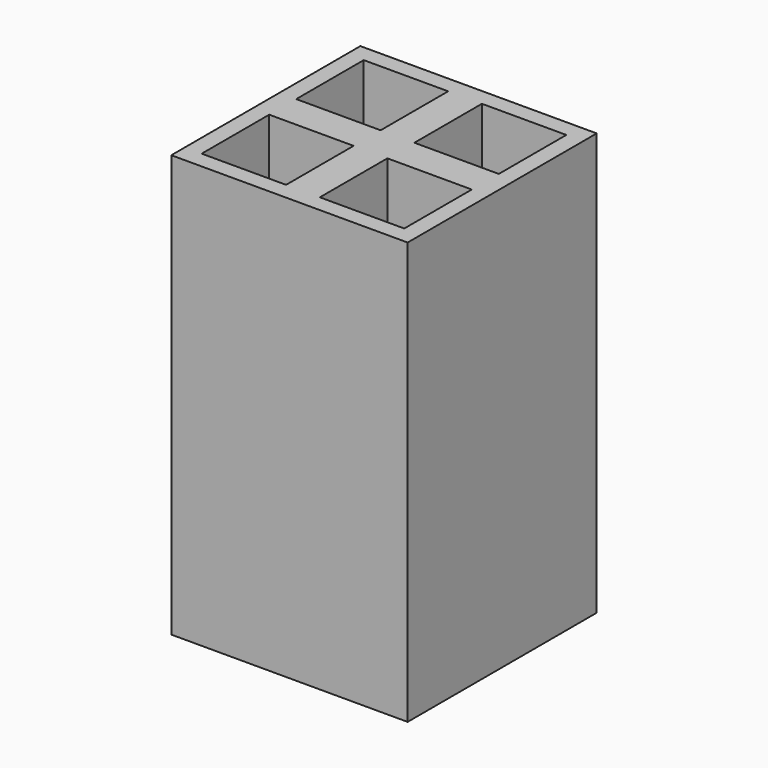
from build123d import *

# Parameters (mm, degrees)
SKETCH_W     = 140
SKETCH_H     = 140
PAD_DEPTH    = 250
SKETCH001_W  = 50
SKETCH001_H  = 50
POCKET_DEPTH = 250.001


with BuildPart() as part:
    # Sketch → Pad (new body)
    with BuildSketch(Plane.XY):
        Rectangle(SKETCH_W, SKETCH_H)
    extrude(amount=PAD_DEPTH)

    # Sketch001 → Pocket (cut, through all)
    with BuildSketch(Plane.XY.offset(250)):
        with Locations((-35, 35)):
            Rectangle(SKETCH001_W, SKETCH001_H)
        with Locations((35, 35)):
            Rectangle(SKETCH001_W, SKETCH001_H)
        with Locations((-35, -35)):
            Rectangle(SKETCH001_W, SKETCH001_H)
        with Locations((35, -35)):
            Rectangle(SKETCH001_W, SKETCH001_H)
    extrude(amount=-POCKET_DEPTH, mode=Mode.SUBTRACT)


solid = part.part
